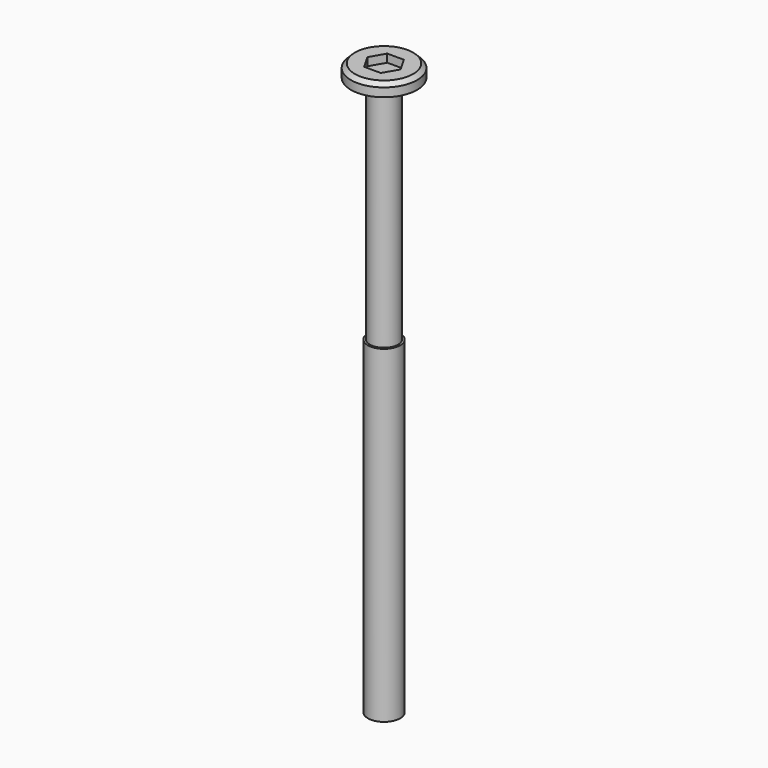
from build123d import *

# Parameters (mm, degrees)
SKETCH009_R     = 5.75
PAD005_DEPTH    = 2.2
POCKET_DEPTH    = 1.4
CHAMFER001_SIZE = 0.7
SKETCH011_R     = 2.45
PAD006_DEPTH    = 40
SKETCH012_R     = 2.8
PAD007_DEPTH    = 57


with BuildPart() as part:
    # Sketch009 → Pad005 (new body)
    with BuildSketch(Plane.XY):
        Circle(SKETCH009_R)
    extrude(amount=PAD005_DEPTH)

    # Sketch010 (on Face3 of Pad005) → Pocket (cut)
    with BuildSketch(Plane.XY.offset(2.2)):
        Polygon((2.886751, 0), (1.443376, 2.5), (-1.443376, 2.5), (-2.886751, 0), (-1.443376, -2.5), (1.443376, -2.5), align=None)
    extrude(amount=-POCKET_DEPTH, mode=Mode.SUBTRACT)

    # Chamfer001
    chamfer001_edges = [part.edges().sort_by_distance(p)[0] for p in [
        (-5.75, 0, 2.2),
    ]]
    chamfer(chamfer001_edges, length=CHAMFER001_SIZE)

    # Sketch011 (on Face3 of Chamfer001) → Pad006 (join)
    with BuildSketch(Plane(origin=(0, 0, 0), x_dir=(1, 0, 0), z_dir=(0, 0, -1))):
        Circle(SKETCH011_R)
    extrude(amount=PAD006_DEPTH)

    # Sketch012 (on Face12 of Pad006) → Pad007 (join)
    with BuildSketch(Plane(origin=(0, 0, -40), x_dir=(1, 0, 0), z_dir=(0, 0, -1))):
        Circle(SKETCH012_R)
    extrude(amount=PAD007_DEPTH)


solid = part.part
